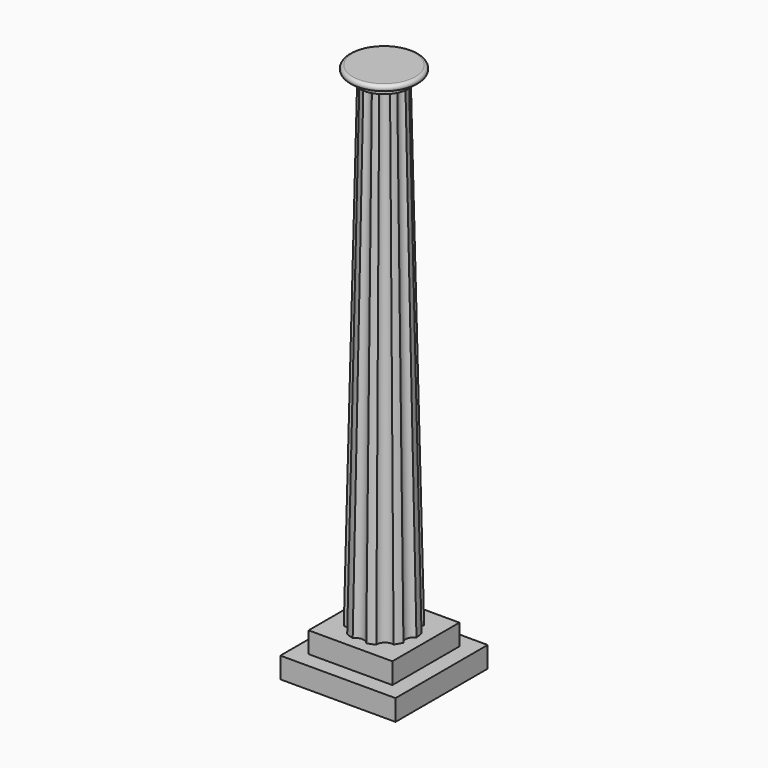
from build123d import *

# Parameters (mm, degrees)
F0_W     = 69.85
F0_H     = 69.85
F1_DEPTH = 12.7
F2_W     = 50.8
F2_H     = 50.8
F3_DEPTH = 12.7


with BuildPart() as f1:
    # F0 (on Top) → F1 (new body)
    with BuildSketch(Plane.XY):
        Rectangle(F0_W, F0_H)
    extrude(amount=F1_DEPTH)

    # F2 (on face) → F3 (join)
    with BuildSketch(Plane.XY.offset(12.7)):
        Rectangle(F2_W, F2_H)
    extrude(amount=F3_DEPTH)

    # F4 (on face) → F7 section 0
    with BuildSketch(Plane.XY.offset(25.4)):
        with BuildLine():
            ThreePointArc((17.60579, -7.275895), (16.259176, -2.866931), (19.032534, 0.81557))
            ThreePointArc((19.032534, 0.81557), (18.760588, 3.307998), (18.163673, 5.743125))
            ThreePointArc((18.163673, 5.743125), (14.298079, 8.255), (14.055529, 12.85864))
            ThreePointArc((14.055529, 12.85864), (12.245104, 14.593147), (10.222571, 16.074873))
            ThreePointArc((10.222571, 16.074873), (5.646753, 15.514325), (2.501785, 18.885009))
            ThreePointArc((2.501785, 18.885009), (0, 19.05), (-2.501785, 18.885009))
            ThreePointArc((-2.501785, 18.885009), (-5.646753, 15.514325), (-10.222571, 16.074873))
            ThreePointArc((-10.222571, 16.074873), (-12.245104, 14.593147), (-14.055529, 12.85864))
            ThreePointArc((-14.055529, 12.85864), (-14.298079, 8.255), (-18.163673, 5.743125))
            ThreePointArc((-18.163673, 5.743125), (-18.760588, 3.307998), (-19.032534, 0.81557))
            ThreePointArc((-19.032534, 0.81557), (-16.259176, -2.866931), (-17.60579, -7.275895))
            ThreePointArc((-17.60579, -7.275895), (-16.497784, -9.525), (-15.104005, -11.609114))
            ThreePointArc((-15.104005, -11.609114), (-10.612423, -12.647394), (-8.809963, -16.890443))
            ThreePointArc((-8.809963, -16.890443), (-6.515484, -17.901144), (-4.108144, -18.601765))
            ThreePointArc((-4.108144, -18.601765), (0, -16.51), (4.108144, -18.601765))
            ThreePointArc((4.108144, -18.601765), (6.515484, -17.901144), (8.809963, -16.890443))
            ThreePointArc((8.809963, -16.890443), (10.612423, -12.647394), (15.104005, -11.609114))
            ThreePointArc((15.104005, -11.609114), (16.497784, -9.525), (17.60579, -7.275895))
        make_face()
    # F6 (on offset) → F7 section 1
    with BuildSketch(Plane.XY.offset(317.5)):
        with BuildLine():
            ThreePointArc((11.798684, -4.699048), (11.256353, -1.984799), (12.694305, 0.380274))
            ThreePointArc((12.694305, 0.380274), (12.507058, 2.205332), (12.058806, 3.984368))
            ThreePointArc((12.058806, 3.984368), (9.89867, 5.715), (9.479967, 8.451049))
            ThreePointArc((9.479967, 8.451049), (8.163403, 9.728764), (6.676479, 10.803454))
            ThreePointArc((6.676479, 10.803454), (3.90929, 10.740687), (1.829847, 12.567484))
            ThreePointArc((1.829847, 12.567484), (0, 12.7), (-1.829847, 12.567484))
            ThreePointArc((-1.829847, 12.567484), (-3.90929, 10.740687), (-6.676479, 10.803454))
            ThreePointArc((-6.676479, 10.803454), (-8.163403, 9.728764), (-9.479967, 8.451049))
            ThreePointArc((-9.479967, 8.451049), (-9.89867, 5.715), (-12.058806, 3.984368))
            ThreePointArc((-12.058806, 3.984368), (-12.507058, 2.205332), (-12.694305, 0.380274))
            ThreePointArc((-12.694305, 0.380274), (-11.256353, -1.984799), (-11.798684, -4.699048))
            ThreePointArc((-11.798684, -4.699048), (-10.998523, -6.35), (-9.968837, -7.868436))
            ThreePointArc((-9.968837, -7.868436), (-7.347062, -8.755888), (-6.017826, -11.183728))
            ThreePointArc((-6.017826, -11.183728), (-4.343656, -11.934096), (-2.578839, -12.435417))
            ThreePointArc((-2.578839, -12.435417), (0, -11.43), (2.578839, -12.435417))
            ThreePointArc((2.578839, -12.435417), (4.343656, -11.934096), (6.017826, -11.183728))
            ThreePointArc((6.017826, -11.183728), (7.347062, -8.755888), (9.968837, -7.868436))
            ThreePointArc((9.968837, -7.868436), (10.998523, -6.35), (11.798684, -4.699048))
        make_face()
    loft()

    # F8 (on Front) → F9 (revolve)
    with BuildSketch(Plane.XZ):
        Polygon((0, 325.12), (0, 317.5), (15.24, 317.5), (15.24, 321.31), (19.05, 321.31), (19.05, 325.12), align=None)
        with BuildLine():
            ThreePointArc((19.05, 321.31), (20.955, 323.215), (19.05, 325.12))
            Line((19.05, 325.12), (19.05, 321.31))
        make_face()
    revolve(axis=Axis((0, 0, 321.31), (0, 0, 1)))


solid = f1.part
